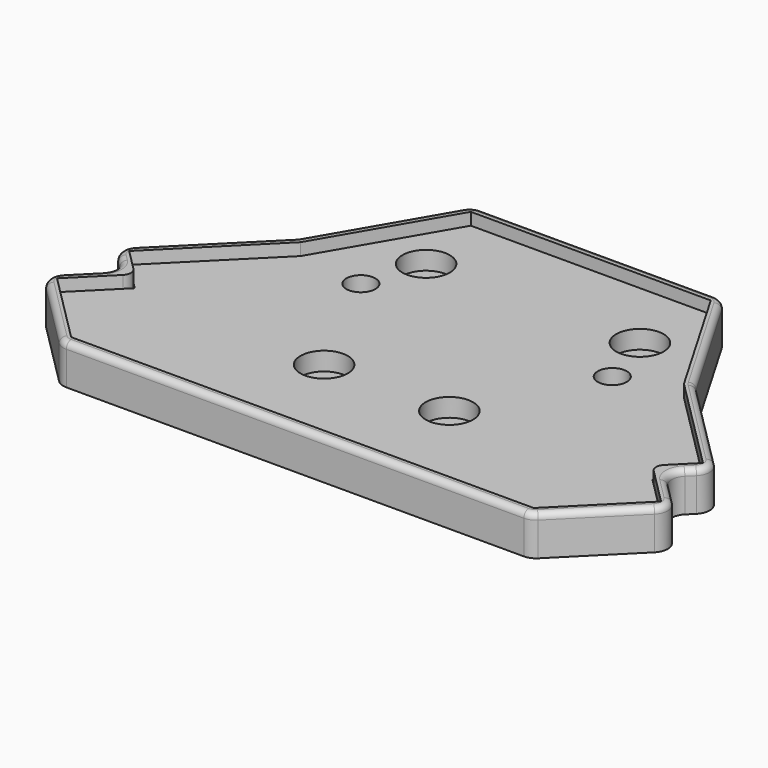
from build123d import *

# Parameters (mm, degrees)
F4_DEPTH = 13
F0_R     = 7.75
F0_R_2   = 3
F5_DEPTH = 3
F3_R     = 7.75
F3_R_2   = 4.75
F6_DEPTH = 9
F7_R     = 5
F8_R     = 2
F9_R     = 3


with BuildPart() as f4:
    # F3 (on Top) → F4 (new body)
    with BuildSketch(Plane.XY):
        Polygon((41, 53.778166), (-41, 53.778166), (-65.147631, 12.294531), (-98.166522, -20.72436), (-88.974134, -29.916748), (-103.11627, -44.058884), (-76.953319, -70.221834), (76.953319, -70.221834), (103.11627, -44.058884), (88.974134, -29.916748), (98.166522, -20.72436), (65.147631, 12.294531), align=None)
        Polygon((-93.923882, -20.72436), (-62.750869, 10.448653), (-39.275052, 50.778166), (39.275052, 50.778166), (62.750869, 10.448653), (93.923882, -20.72436), (84.731493, -29.916748), (98.873629, -44.058884), (75.710678, -67.221834), (-75.710678, -67.221834), (-98.873629, -44.058884), (-84.731493, -29.916748), align=None, mode=Mode.SUBTRACT)
    extrude(amount=F4_DEPTH)

    # F7
    f7_edges = [f4.edges().sort_by_distance(p)[0] for p in [
        (98.166522, -20.72436, 6.5),
        (103.11627, -44.058884, 6.5),
        (76.953319, -70.221834, 6.5),
        (-76.953319, -70.221834, 6.5),
        (-103.11627, -44.058884, 6.5),
        (-98.166522, -20.72436, 6.5),
        (-88.974134, -29.916748, 6.5),
        (-65.147631, 12.294531, 6.5),
        (-41, 53.778166, 6.5),
        (41, 53.778166, 6.5),
        (65.147631, 12.294531, 6.5),
        (88.974134, -29.916748, 6.5),
    ]]
    fillet(f7_edges, radius=F7_R)

    # F8
    f8_edges = [f4.edges().sort_by_distance(p)[0] for p in [
        (0, -70.221834, 13),
    ]]
    fillet(f8_edges, radius=F8_R)

    # F9
    f9_edges = [f4.edges().sort_by_distance(p)[0] for p in [
        (84.731493, -29.916748, 6.5),
        (-84.731493, -29.916748, 6.5),
    ]]
    fillet(f9_edges, radius=F9_R)


with BuildPart() as f5:
    # F0 (on Top) → F5 (new body)
    with BuildSketch(Plane.XY):
        with Locations((-35, 27.128166)):
            Circle(F0_R)
        with Locations((-35, 27.128166)):
            Circle(F0_R_2, mode=Mode.SUBTRACT)
        with Locations((35, 27.128166)):
            Circle(F0_R)
        with Locations((35, 27.128166)):
            Circle(F0_R_2, mode=Mode.SUBTRACT)
        with Locations((20.5, -32.721834)):
            Circle(F0_R)
        with Locations((20.5, -32.721834)):
            Circle(F0_R_2, mode=Mode.SUBTRACT)
        with Locations((-20.5, -32.721834)):
            Circle(F0_R)
        with Locations((-20.5, -32.721834)):
            Circle(F0_R_2, mode=Mode.SUBTRACT)
    extrude(amount=F5_DEPTH)


with BuildPart() as f6:
    # F3 (on Top) → F6 (new body)
    with BuildSketch(Plane.XY):
        Polygon((-39.275052, 50.778166), (-62.750869, 10.448653), (-93.923882, -20.72436), (-84.731493, -29.916748), (-98.873629, -44.058884), (-75.710678, -67.221834), (75.710678, -67.221834), (98.873629, -44.058884), (84.731493, -29.916748), (93.923882, -20.72436), (62.750869, 10.448653), (39.275052, 50.778166), align=None)
        with Locations((-20.5, -32.721834)):
            Circle(F3_R, mode=Mode.SUBTRACT)
        with Locations((20.5, -32.721834)):
            Circle(F3_R, mode=Mode.SUBTRACT)
        with Locations((-41.15, 8.128166)):
            Circle(F3_R_2, mode=Mode.SUBTRACT)
        with Locations((-35, 27.128166)):
            Circle(F3_R, mode=Mode.SUBTRACT)
        with Locations((41.15, 8.128166)):
            Circle(F3_R_2, mode=Mode.SUBTRACT)
        with Locations((35, 27.128166)):
            Circle(F3_R, mode=Mode.SUBTRACT)
    extrude(amount=F6_DEPTH)


solid = Compound([f4.part, f5.part, f6.part])
